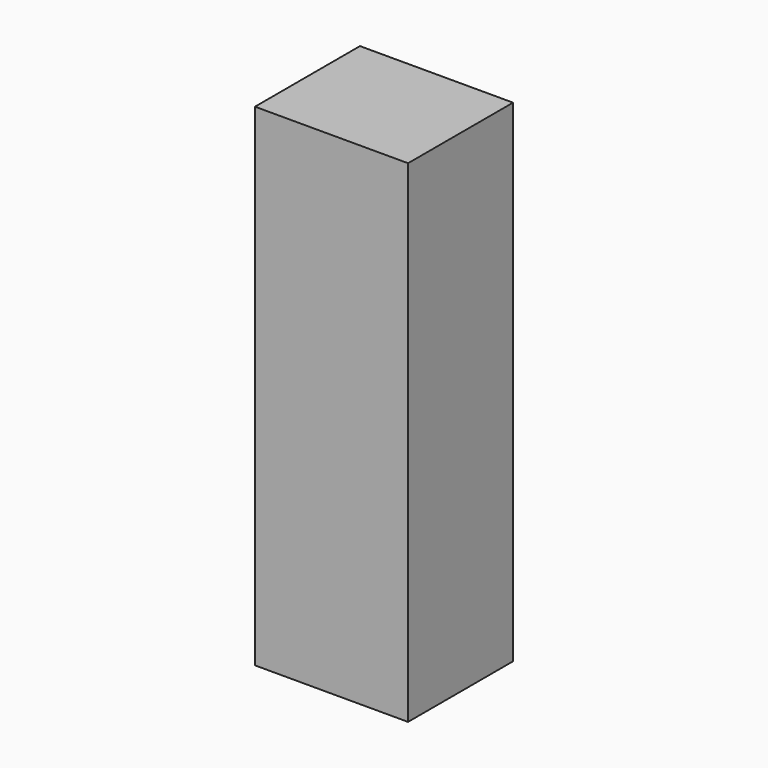
from build123d import *

# Parameters (mm, degrees)
F0_W     = 177.8
F0_H     = 140.06032
F0_R     = 22.169978
F0_H_2   = 431.204602
F1_DEPTH = 127
F2_T     = -2.54
F3_W     = 177.8
F3_H     = 571.264922
F4_DEPTH = 25.4


with BuildPart() as f1:
    # F0 (on Front) → F1 (new body)
    with BuildSketch(Plane.XZ):
        with Locations((0, 215.602301)):
            Rectangle(F0_W, F0_H)
        with Locations((-11.851988, 223.087162)):
            Circle(F0_R, mode=Mode.SUBTRACT)
        with Locations((0, -70.03016)):
            Rectangle(F0_W, F0_H_2)
    extrude(amount=F1_DEPTH)

    # F2
    f2_openings = [f1.faces().sort_by_distance(p)[0] for p in [
        (0.18296, -127, -3.443806),
    ]]
    offset(amount=F2_T, openings=f2_openings)

    # F3 (on face) → F4 (join)
    with BuildSketch(Plane.XZ.offset(127)):
        Rectangle(F3_W, F3_H)
    extrude(amount=F4_DEPTH)


solid = f1.part
